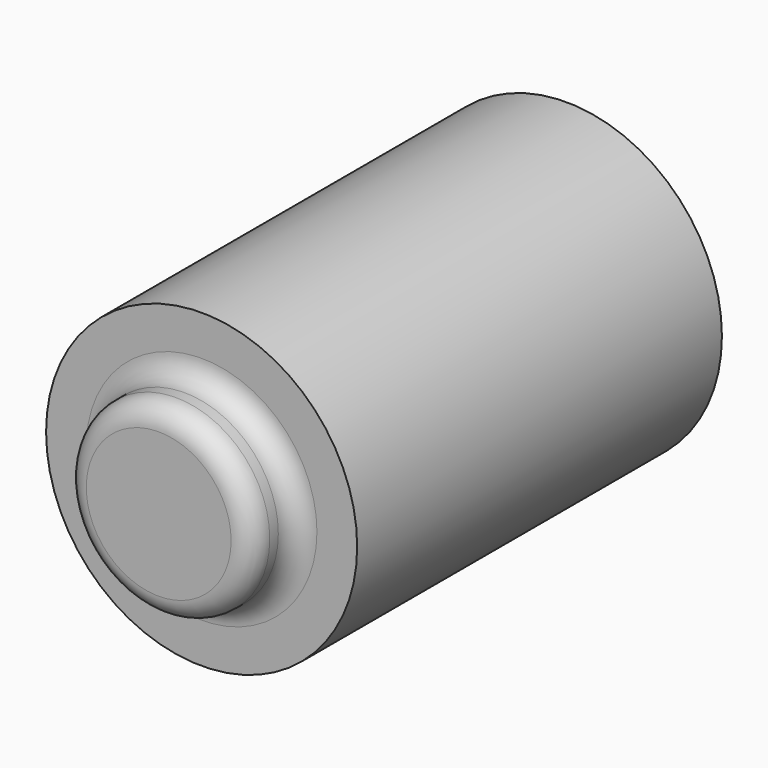
from build123d import *

# Parameters (mm, degrees)
SKETCH_R     = 29
PAD_DEPTH    = 85
SKETCH001_R  = 17.5
PAD001_DEPTH = 10
FILLET_R     = 4
FILLET001_R  = 4


with BuildPart() as part:
    # Sketch (on XZ_Plane of Origin) → Pad (new body)
    with BuildSketch(Plane.XZ):
        Circle(SKETCH_R)
    extrude(amount=PAD_DEPTH)

    # Sketch001 (on Face3 of Pad) → Pad001 (join)
    with BuildSketch(Plane.XZ.offset(85)):
        Circle(SKETCH001_R)
    extrude(amount=PAD001_DEPTH)

    # Fillet
    fillet_edges = [part.edges().sort_by_distance(p)[0] for p in [
        (-17.5, -85, 0),
    ]]
    fillet(fillet_edges, radius=FILLET_R)

    # Fillet001
    fillet001_edges = [part.edges().sort_by_distance(p)[0] for p in [
        (-17.5, -95, 0),
    ]]
    fillet(fillet001_edges, radius=FILLET001_R)


solid = part.part
